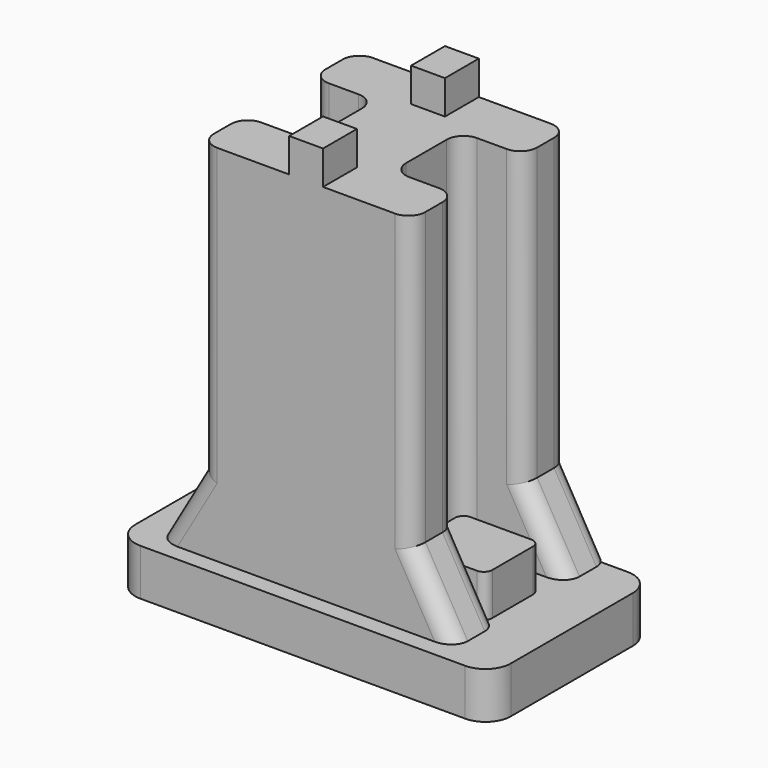
from build123d import *

# Parameters (mm, degrees)
F0_W           = 25
F0_H           = 23
F1_DEPTH       = 43
F2_W           = 4
F2_H           = 5
F3_DEPTH       = 4
F5_DEPTH       = 23
F6_W           = 15
F6_H           = 10
F7_DEPTH       = 43.001
F8_R           = 2
F10_DEPTH      = 4
F10_DEPTH_BACK = 1
F11_W          = 44.3811978465
F11_H          = 24
F12_DEPTH      = 5.5
F13_R          = 3
F14_R          = 1


with BuildPart() as f1:
    # F0 (on Top) → F1 (new body)
    with BuildSketch(Plane.XY):
        with Locations((12.5, -11.5)):
            Rectangle(F0_W, F0_H)
    extrude(amount=F1_DEPTH)

    # F2 (on face) → F3 (join)
    with BuildSketch(Plane.XY.offset(43)):
        with Locations((12.5, -2.5)):
            Rectangle(F2_W, F2_H)
        with Locations((12.5, -20.5)):
            Rectangle(F2_W, F2_H)
    extrude(amount=F3_DEPTH)

    # F4 (on face) → F5 (join)
    with BuildSketch(Plane.XZ.offset(23)):
        Polygon((30, 0), (25, 8.6602540378), (25, 0), align=None)
        Polygon((0, 0), (0, 8.6602540378), (-5, 0), align=None)
    extrude(amount=-F5_DEPTH)

    # F6 (on face) → F7 (cut, through all)
    with BuildSketch(Plane.XY.offset(43)):
        with Locations((0, -11.5)):
            Rectangle(F6_W, F6_H)
        with Locations((25, -11.5)):
            Rectangle(F6_W, F6_H)
    extrude(amount=-F7_DEPTH, mode=Mode.SUBTRACT)

    # F8
    f8_edges = [f1.edges().sort_by_distance(p)[0] for p in [
        (25, -23, 25.830127),
        (27.5, -23, 4.330127),
        (0, -23, 25.830127),
        (0, -16.5, 25.830127),
        (-2.5, -23, 4.330127),
        (-2.5, -16.5, 4.330127),
        (7.5, -16.5, 21.5),
        (7.5, -6.5, 21.5),
        (0, -6.5, 25.830127),
        (-2.5, -6.5, 4.330127),
        (0, 0, 25.830127),
        (-2.5, 0, 4.330127),
        (17.5, -16.5, 21.5),
        (25, -16.5, 25.830127),
        (27.5, -16.5, 4.330127),
        (27.5, 0, 4.330127),
        (25, 0, 25.830127),
        (17.5, -6.5, 21.5),
        (25, -6.5, 25.830127),
        (27.5, -6.5, 4.330127),
    ]]
    fillet(f8_edges, radius=F8_R)


with BuildPart() as f10:
    # F9 (on face) → F10 (new body, two sides)
    with BuildSketch(Plane(origin=(0, 0, 0), x_dir=(1, 0, 0), z_dir=(0, 0, -1))) as f10_sk:
        with BuildLine():
            Line((5.5, 15.5), (-2.6905989232, 15.5))
            Line((-2.6905989232, 15.5), (-2.6905989232, 7.5))
            Line((-2.6905989232, 7.5), (5.5, 7.5))
            ThreePointArc((5.5, 7.5), (6.2071067812, 7.7928932188), (6.5, 8.5))
            Line((6.5, 8.5), (6.5, 14.5))
            ThreePointArc((6.5, 14.5), (6.2071067812, 15.2071067812), (5.5, 15.5))
        make_face()
    extrude(amount=-F10_DEPTH)
    extrude(f10_sk.sketch, amount=F10_DEPTH_BACK)



with BuildPart() as f10b:
    # F9 (on face) → F10, piece 2 (new body, two sides)
    with BuildSketch(Plane(origin=(0, 0, 0), x_dir=(1, 0, 0), z_dir=(0, 0, -1))) as f10_2_sk:
        with BuildLine():
            Line((18.5, 14.5), (18.5, 8.5))
            ThreePointArc((18.5, 8.5), (18.7928932188, 7.7928932188), (19.5, 7.5))
            Line((19.5, 7.5), (27.6905989232, 7.5))
            Line((27.6905989232, 7.5), (27.6905989232, 15.5))
            Line((27.6905989232, 15.5), (19.5, 15.5))
            ThreePointArc((19.5, 15.5), (18.7928932188, 15.2071067812), (18.5, 14.5))
        make_face()
    extrude(amount=-F10_DEPTH)
    extrude(f10_2_sk.sketch, amount=F10_DEPTH_BACK)


with BuildPart() as f10_1:
    add(f10.part)

    add(f10b.part)  # F12 merges F10b
    # F11 (on face) → F12 (join)
    with BuildSketch(Plane(origin=(0, 0, -1), x_dir=(1, 0, 0), z_dir=(0, 0, -1))):
        with Locations((12.5, 11.5)):
            Rectangle(F11_W, F11_H)
    extrude(amount=F12_DEPTH)

    # F13
    f13_edges = [f10_1.edges().sort_by_distance(p)[0] for p in [
        (34.690599, -23.5, -3.75),
        (-9.690599, -23.5, -3.75),
        (-9.690599, 0.5, -3.75),
        (34.690599, 0.5, -3.75),
    ]]
    fillet(f13_edges, radius=F13_R)

    # F14
    f14_edges = [f10_1.edges().sort_by_distance(p)[0] for p in [
        (27.690599, -15.5, 1.5),
        (27.690599, -7.5, 1.5),
        (-2.690599, -7.5, 1.5),
        (-2.690599, -15.5, 1.5),
    ]]
    fillet(f14_edges, radius=F14_R)


solid = Compound([f1.part, f10_1.part])
